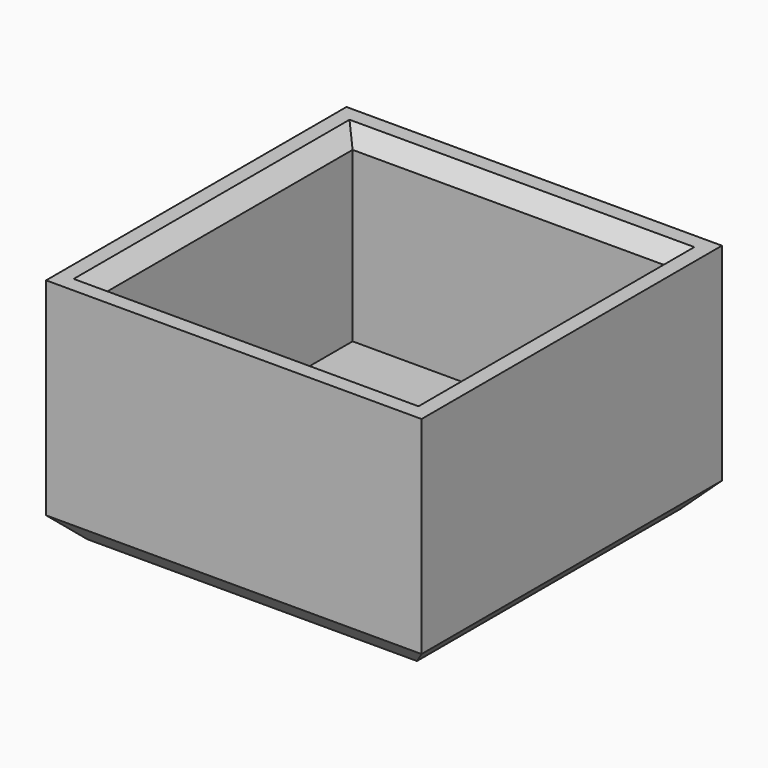
from build123d import *

# Parameters (mm, degrees)
SKETCH_W        = 20.5
SKETCH_H        = 20.5
PAD_DEPTH       = 15
SKETCH001_W     = 24.5
SKETCH001_H     = 24.5
PAD001_DEPTH    = 15
PAD001_FACE7_W  = 20.5
PAD001_FACE7_H  = 20.5
POCKET_DEPTH    = 12
CHAMFER_SIZE    = 1
CHAMFER001_SIZE = 1.5


with BuildPart() as part:
    # Sketch → Pad (new body)
    with BuildSketch(Plane.XY):
        with Locations((-10.25, 10.25)):
            Rectangle(SKETCH_W, SKETCH_H)
    extrude(amount=PAD_DEPTH)

    # Sketch001 (on Face6 of Pad) → Pad001 (join)
    with BuildSketch(Plane.XY.offset(15)):
        with Locations((-10.25, 10.25)):
            Rectangle(SKETCH001_W, SKETCH001_H)
    extrude(amount=-PAD001_DEPTH)

    # Pad001 Face7 → Pocket (cut)
    with BuildSketch(Plane(origin=(-10.25, 10.25, 15), x_dir=(0, 1, 0), z_dir=(0, 0, 1))):
        Rectangle(PAD001_FACE7_W, PAD001_FACE7_H)
    extrude(amount=-POCKET_DEPTH, mode=Mode.SUBTRACT)

    # Chamfer
    chamfer_edges = [part.edges().sort_by_distance(p)[0] for p in [
        (-20.5, 10.25, 15),
        (-10.25, 20.5, 15),
        (0, 10.25, 15),
        (-10.25, 0, 15),
    ]]
    chamfer(chamfer_edges, length=CHAMFER_SIZE)

    # Chamfer001
    chamfer001_edges = [part.edges().sort_by_distance(p)[0] for p in [
        (-10.25, 22.5, 0),
        (-22.5, 10.25, 0),
        (-10.25, -2, 0),
        (2, 10.25, 0),
    ]]
    chamfer(chamfer001_edges, length=CHAMFER001_SIZE)


solid = part.part
